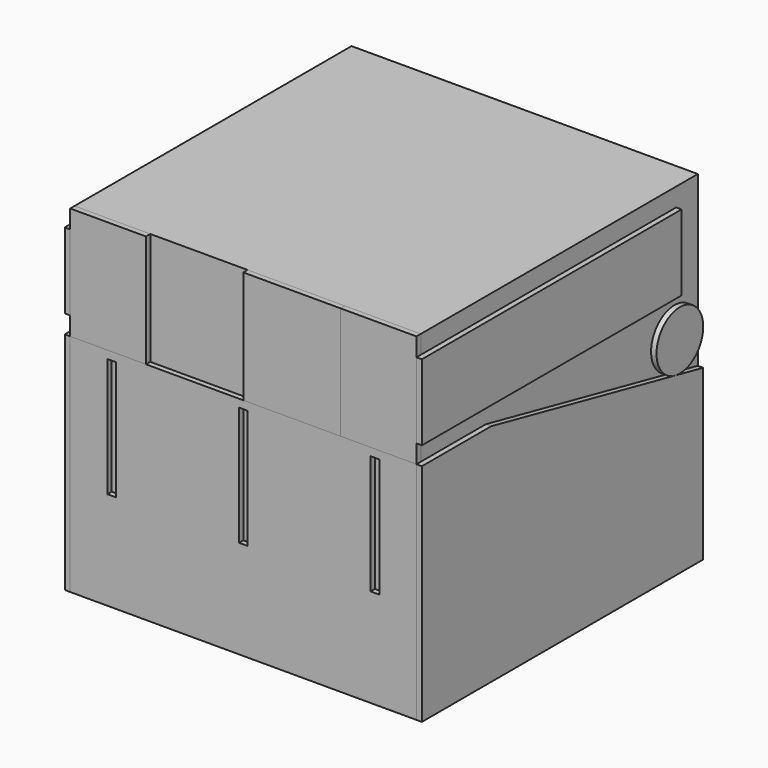
from build123d import *

# Parameters (mm, degrees)
F0_W      = 203.2
F0_H      = 203.2
F1_DEPTH  = 198.12
F2_W      = 203.2
F2_H      = 132.08
F2_W_2    = 5.08
F2_H_2    = 69.85
F3_DEPTH  = 3.175
F4_W      = 44.45
F4_H      = 66.04
F5_DEPTH  = 3.175
F6_W      = 57.15
F6_H      = 66.04
F7_DEPTH  = 3.175
F8_W      = 190.5
F8_H      = 44.45
F9_DEPTH  = 3.175
F11_DEPTH = 3.175
F13_R     = 17.145
F14_DEPTH = 3.175
F15_R     = 17.145
F16_DEPTH = 3.175


with BuildPart() as f1:
    # F0 (on Top) → F1 (new body)
    with BuildSketch(Plane.XY):
        Rectangle(F0_W, F0_H)
    extrude(amount=F1_DEPTH)


with BuildPart() as f3:
    # F2 (on face) → F3 (new body)
    with BuildSketch(Plane.XZ.offset(101.6)):
        with Locations((0, 66.04)):
            Rectangle(F2_W, F2_H)
        with Locations((-77.222839, 92.560843)):
            Rectangle(F2_W_2, F2_H_2, mode=Mode.SUBTRACT)
        with Locations((0, 92.560843)):
            Rectangle(F2_W_2, F2_H_2, mode=Mode.SUBTRACT)
        with Locations((77.222839, 92.560843)):
            Rectangle(F2_W_2, F2_H_2, mode=Mode.SUBTRACT)
    extrude(amount=F3_DEPTH)


with BuildPart() as f5:
    # F4 (on face) → F5 (new body)
    with BuildSketch(Plane.XZ.offset(101.6)):
        with Locations((-79.375, 165.1)):
            Rectangle(F4_W, F4_H)
        with Locations((79.375, 165.1)):
            Rectangle(F4_W, F4_H)
    extrude(amount=F5_DEPTH)


with BuildPart() as f7:
    # F6 (on face) → F7 (new body)
    with BuildSketch(Plane.XZ.offset(101.6)):
        with Locations((28.575, 165.1)):
            Rectangle(F6_W, F6_H)
    extrude(amount=F7_DEPTH)


with BuildPart() as f9:
    # F8 (on face) → F9 (new body)
    with BuildSketch(Plane.YZ.offset(101.6)):
        with Locations((-9.525, 165.1)):
            Rectangle(F8_W, F8_H)
    extrude(amount=F9_DEPTH)


with BuildPart() as f11:
    # F10 (on face) → F11 (new body)
    with BuildSketch(Plane.YZ.offset(101.6)):
        Polygon((-53.975, 132.08), (-104.775, 132.08), (-104.775, 0), (101.6, 0), (101.6, 99.06), align=None)
    extrude(amount=F11_DEPTH)


with BuildPart() as f12_1:
    # F12: instance of F11
    add(f11.part.mirror(Plane(origin=(0, -103.1875, 165.1), x_dir=(0, -1, 0), z_dir=(-1, 0, 0))))


with BuildPart() as f12_2:
    # F12: instance of F9
    add(f9.part.mirror(Plane(origin=(0, -103.1875, 165.1), x_dir=(0, -1, 0), z_dir=(-1, 0, 0))))


with BuildPart() as f14:
    # F13 (on face) → F14 (new body)
    with BuildSketch(Plane.YZ.offset(101.6)):
        with Locations((84.455, 120.225858)):
            Circle(F13_R)
    extrude(amount=F14_DEPTH)


with BuildPart() as f16:
    # F15 (on face) → F16 (new body)
    with BuildSketch(Plane(origin=(-101.6, 0, 0), x_dir=(0, -1, 0), z_dir=(-1, 0, 0))):
        with Locations((-84.455, 120.225858)):
            Circle(F15_R)
    extrude(amount=F16_DEPTH)


solid = Compound([f1.part, f3.part, f5.part, f7.part, f9.part, f11.part, f12_1.part, f12_2.part, f14.part, f16.part])
